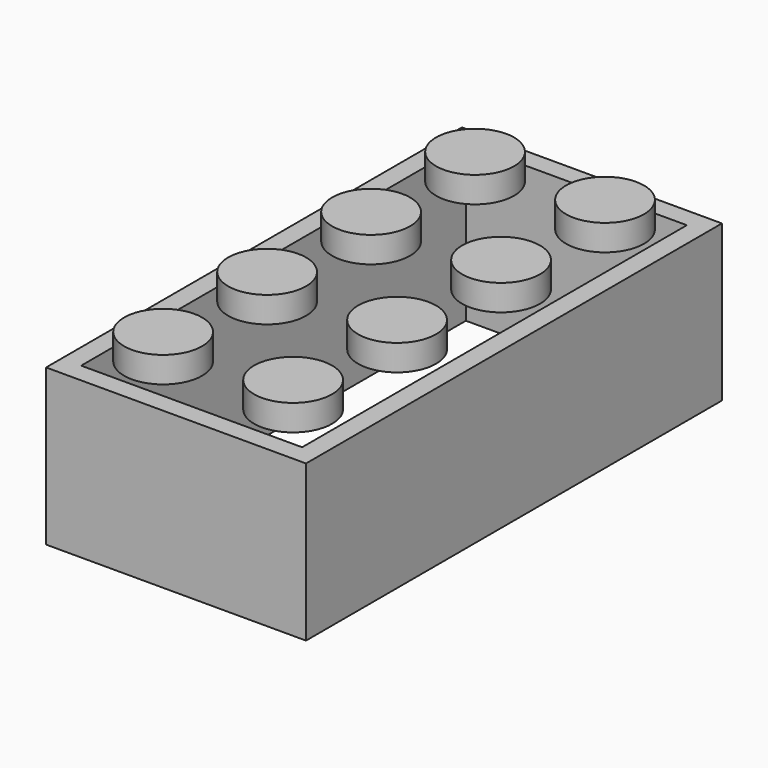
from build123d import *

# Parameters (mm, degrees)
F0_W     = 15.875
F0_H     = 31.75
F0_W_2   = 13.49375
F0_H_2   = 29.36875
F1_DEPTH = 9.525
F2_R     = 2.38125
F3_DEPTH = 1.5875


with BuildPart() as f1:
    # F0 (on Top) → F1 (new body)
    with BuildSketch(Plane.XY):
        with Locations((7.9375, 15.875)):
            Rectangle(F0_W, F0_H)
        with Locations((7.9375, 15.875)):
            Rectangle(F0_W_2, F0_H_2, mode=Mode.SUBTRACT)
    extrude(amount=F1_DEPTH)


with BuildPart() as f3:
    # F2 (on face) → F3 (new body)
    with BuildSketch(Plane.XY.offset(9.525)):
        with Locations((3.96875, 27.7876)):
            Circle(F2_R)
        with Locations((11.90625, 27.7876)):
            Circle(F2_R)
        with Locations((3.96875, 19.8501)):
            Circle(F2_R)
        with Locations((11.90625, 19.8501)):
            Circle(F2_R)
        with Locations((3.96875, 11.9126)):
            Circle(F2_R)
        with Locations((11.90625, 11.9126)):
            Circle(F2_R)
        with Locations((3.96875, 3.9751)):
            Circle(F2_R)
        with Locations((11.90625, 3.9751)):
            Circle(F2_R)
    extrude(amount=F3_DEPTH)


solid = Compound([f1.part, f3.part])
